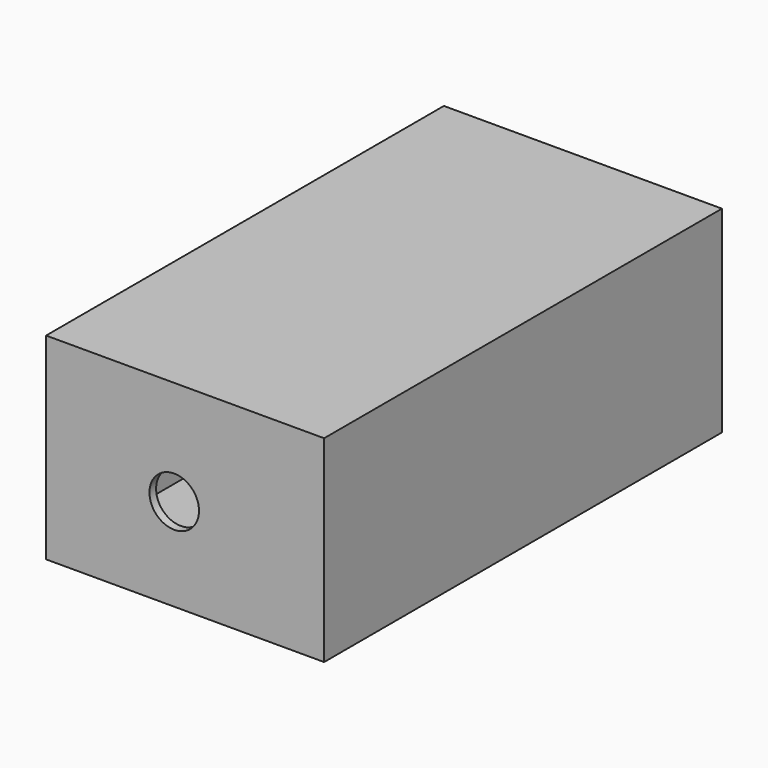
from build123d import *

# Parameters (mm, degrees)
F0_W     = 85.2193273604
F0_H     = 60.3945683688
F1_DEPTH = 127
F2_W     = 85.2193273604
F2_H     = 60.3945683688
F3_DEPTH = 25.4
F4_T     = -2.54
F5_R     = 7.5956350192
F6_DEPTH = 127


with BuildPart() as f1:
    # F0 (on Front) → F1 (new body)
    with BuildSketch(Plane.XZ):
        with Locations((3.3346693963, 1.852591522)):
            Rectangle(F0_W, F0_H)
    extrude(amount=F1_DEPTH)

    # F2 (on face) → F3 (join)
    with BuildSketch(Plane(origin=(0, 0, 0), x_dir=(-1, 0, 0), z_dir=(0, 1, 0))):
        with Locations((-3.3346693963, 1.852591522)):
            Rectangle(F2_W, F2_H)
    extrude(amount=F3_DEPTH)

    # F4
    f4_openings = [f1.faces().sort_by_distance(p)[0] for p in [
        (3.334669, 25.4, 1.852592),
    ]]
    offset(amount=F4_T, openings=f4_openings)

    # F5 (on Front) → F6 (cut, symmetric)
    with BuildSketch(Plane.XZ):
        Circle(F5_R)
    extrude(amount=F6_DEPTH, both=True, mode=Mode.SUBTRACT)


solid = f1.part
